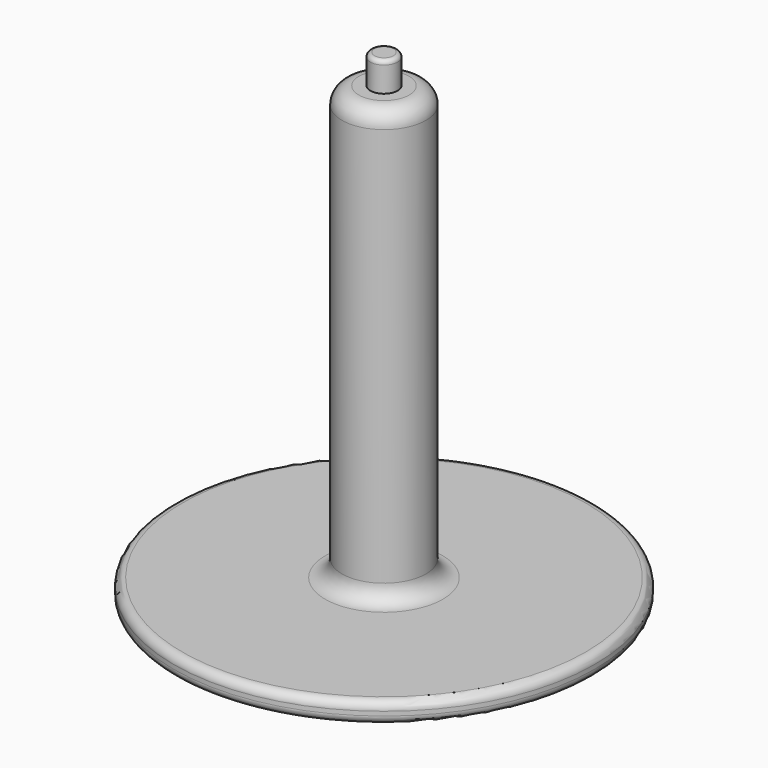
from build123d import *

# Parameters (mm, degrees)
SKETCH_R      = 10
PAD_DEPTH     = 110
SKETCH001_R   = 10
SKETCH001_R_2 = 3.25
POCKET_DEPTH  = 7
SKETCH002_R   = 50
PAD001_DEPTH  = 5
FILLET_R      = 2
FILLET001_R   = 4
FILLET002_R   = 1
FILLET003_R   = 4


with BuildPart() as part:
    # Sketch → Pad (new body)
    with BuildSketch(Plane.XY):
        Circle(SKETCH_R)
    extrude(amount=PAD_DEPTH)

    # Sketch001 (on Face3 of Pad) → Pocket (cut)
    with BuildSketch(Plane.XY.offset(110)):
        Circle(SKETCH001_R)
        Circle(SKETCH001_R_2, mode=Mode.SUBTRACT)
    extrude(amount=-POCKET_DEPTH, mode=Mode.SUBTRACT)

    # Sketch002 (on Face2 of Pocket) → Pad001 (join)
    with BuildSketch(Plane(origin=(0, 0, 0), x_dir=(1, 0, 0), z_dir=(0, 0, -1))):
        Circle(SKETCH002_R)
    extrude(amount=PAD001_DEPTH)

    # Fillet
    fillet_edges = [part.edges().sort_by_distance(p)[0] for p in [
        (-50, 0, -5),
        (-50, 0, 0),
    ]]
    fillet(fillet_edges, radius=FILLET_R)

    # Fillet001
    fillet001_edges = [part.edges().sort_by_distance(p)[0] for p in [
        (-10, 0, 103),
    ]]
    fillet(fillet001_edges, radius=FILLET001_R)

    # Fillet002
    fillet002_edges = [part.edges().sort_by_distance(p)[0] for p in [
        (-3.25, 0, 110),
    ]]
    fillet(fillet002_edges, radius=FILLET002_R)

    # Fillet003
    fillet003_edges = [part.edges().sort_by_distance(p)[0] for p in [
        (-10, 0, 0),
    ]]
    fillet(fillet003_edges, radius=FILLET003_R)


solid = part.part
